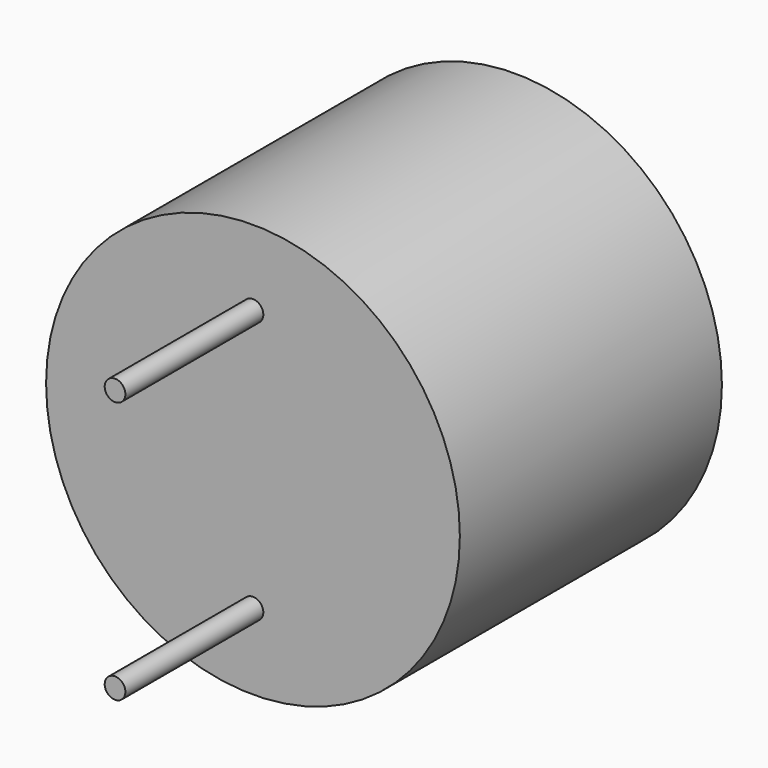
from build123d import *

# Parameters (mm, degrees)
CYLINDER002_R     = 0.3
CYLINDER002_DEPTH = 5
CYLINDER001_R     = 1.3
CYLINDER001_DEPTH = 5
CYLINDER_R        = 6
CYLINDER_DEPTH    = 9.5
CYLINDER003_R     = 0.3
CYLINDER003_DEPTH = 5
FUSION_ROLL_ANGLE = -90


with BuildPart() as obj1:
    # Cylinder002 → Cylinder002 (new body)
    with BuildSketch(Plane(origin=(0, -3.8, -5), x_dir=(1, 0, 0), z_dir=(0, 0, 1))):
        Circle(CYLINDER002_R)
    extrude(amount=CYLINDER002_DEPTH)


with BuildPart() as obj2:
    # Cylinder001 → Cylinder001 (new body)
    with BuildSketch(Plane.XY.offset(4.5)):
        Circle(CYLINDER001_R)
    extrude(amount=CYLINDER001_DEPTH)


with BuildPart() as cut:
    # Cylinder → Cylinder (new body)
    with BuildSketch(Plane.XY):
        Circle(CYLINDER_R)
    extrude(amount=CYLINDER_DEPTH)

    # Cut: cut obj2
    add(obj2.part, mode=Mode.SUBTRACT)


with BuildPart() as buzzer12mm:
    # Cylinder003 → Cylinder003 (new body)
    with BuildSketch(Plane(origin=(0, 3.8, -5), x_dir=(1, 0, 0), z_dir=(0, 0, 1))):
        Circle(CYLINDER003_R)
    extrude(amount=CYLINDER003_DEPTH)

    # Fusion: union obj1, Cut
    add(obj1.part)
    add(cut.part)


with BuildPart() as buzzer12mm_1:
    # Fusion roll: moved
    add(buzzer12mm.part.rotate(Axis((0, 0, 0), (1, 0, 0)), FUSION_ROLL_ANGLE))


with BuildPart() as buzzer12mm_2:
    # Fusion placement: moved
    add(buzzer12mm_1.part.moved(Location((33.37, 5.4, -21.62))))


solid = buzzer12mm_2.part
